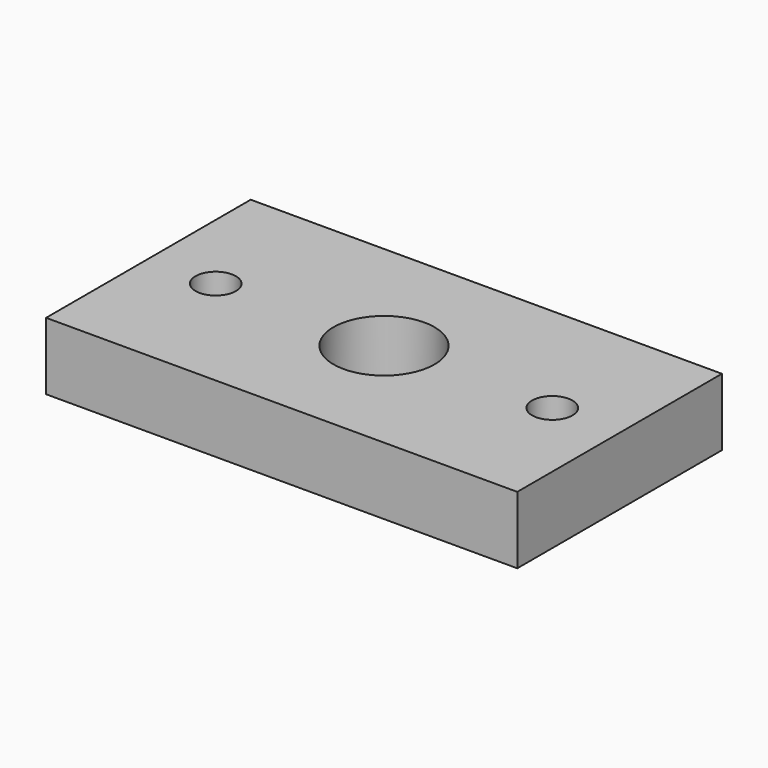
from build123d import *

# Parameters (mm, degrees)
CYLINDER004_R     = 7.5
CYLINDER004_DEPTH = 10
CYLINDER003_R     = 3
CYLINDER003_DEPTH = 10
ARRAY001_X_COUNT  = 2
ARRAY001_X_PITCH  = 50
RECTANGLE001_W    = 70
RECTANGLE001_H    = 38
EXTRUDE001_DEPTH  = 10


with BuildPart() as cilindro004:
    # Cylinder004 → Cylinder004 (new body)
    with BuildSketch(Plane(origin=(0, -5, 0), x_dir=(1, 0, 0), z_dir=(0, 0, 1))):
        Circle(CYLINDER004_R)
    extrude(amount=CYLINDER004_DEPTH)


with BuildPart() as fusion:
    # Cylinder003 → Cylinder003 (new body)
    with BuildSketch(Plane(origin=(25, -5, 0), x_dir=(1, 0, 0), z_dir=(0, 0, 1))):
        Circle(CYLINDER003_R)
    extrude(amount=CYLINDER003_DEPTH)

    # Array001 X: Fusion ×2


with BuildPart() as fusion_1:
    add(fusion.part)
    with Locations(*[(-i * ARRAY001_X_PITCH, 0, 0) for i in range(1, ARRAY001_X_COUNT)]):
        add(fusion.part)

    # Fusion: union Cilindro004
    add(cilindro004.part)


with BuildPart() as obj1:
    # Rectangle001 → Extrude001 (new body)
    with BuildSketch(Plane(origin=(-35, -24, 0), x_dir=(1, 0, 0), z_dir=(0, 0, 1))):
        with Locations((35, 19)):
            Rectangle(RECTANGLE001_W, RECTANGLE001_H)
    extrude(amount=EXTRUDE001_DEPTH)

    # Cut003: cut Fusion
    add(fusion_1.part, mode=Mode.SUBTRACT)


with BuildPart() as obj1_1:
    # Cut003 placement: moved
    add(obj1.part.moved(Location((0, 5, 1))))


solid = obj1_1.part
